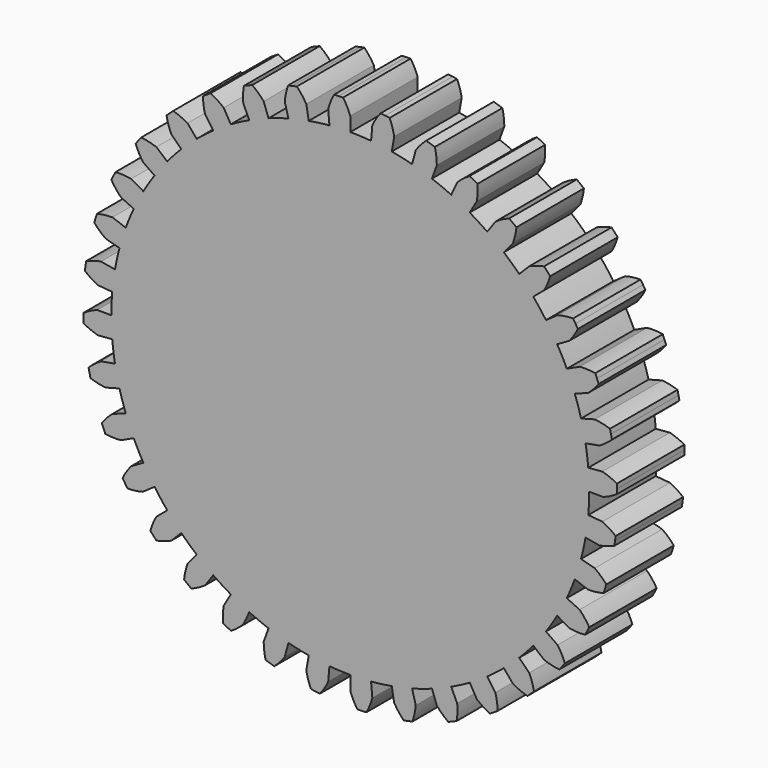
from build123d import *

# Parameters (mm, degrees)
F1_DEPTH = 6.35


with BuildPart() as f1:
    # F0 (on Front) → F1 (new body)
    with BuildSketch(Plane.XZ):
        with BuildLine():
            Line((-1.660317, 18.977509), (-1.567339, 17.914768))
            ThreePointArc((-1.567339, 17.914768), (-2.347279, 17.829351), (-3.12275, 17.709995))
            Line((-3.12275, 17.709995), (-3.307998, 18.760588))
            ThreePointArc((-3.307998, 18.760588), (-3.634061, 19.251528), (-4.018265, 19.698436))
            Line((-4.018265, 19.698436), (-4.350699, 19.624737))
            Line((-4.350699, 19.624737), (-4.683134, 19.551038))
            ThreePointArc((-4.683134, 19.551038), (-4.842469, 18.98363), (-4.930503, 18.400887))
            Line((-4.930503, 18.400887), (-4.654395, 17.370437))
            ThreePointArc((-4.654395, 17.370437), (-5.407653, 17.150883), (-6.150617, 16.89868))
            Line((-6.150617, 16.89868), (-6.515484, 17.901144))
            ThreePointArc((-6.515484, 17.901144), (-6.921844, 18.328006), (-7.377816, 18.701408))
            Line((-7.377816, 18.701408), (-7.692402, 18.571102))
            Line((-7.692402, 18.571102), (-8.006989, 18.440796))
            ThreePointArc((-8.006989, 18.440796), (-8.065374, 17.85434), (-8.050878, 17.265163))
            Line((-8.050878, 17.265163), (-7.600029, 16.298314))
            ThreePointArc((-7.600029, 16.298314), (-8.303718, 15.951293), (-8.9916, 15.573908))
            Line((-8.9916, 15.573908), (-9.525, 16.497784))
            ThreePointArc((-9.525, 16.497784), (-9.999311, 16.847596), (-10.513196, 17.136147))
            Line((-10.513196, 17.136147), (-10.800376, 16.953194))
            Line((-10.800376, 16.953194), (-11.087555, 16.77024))
            ThreePointArc((-11.087555, 16.77024), (-11.043216, 16.182555), (-10.926631, 15.604846))
            Line((-10.926631, 15.604846), (-10.31474, 14.730975))
            ThreePointArc((-10.31474, 14.730975), (-10.947479, 14.267032), (-11.559378, 13.77593))
            Line((-11.559378, 13.77593), (-12.245104, 14.593147))
            ThreePointArc((-12.245104, 14.593147), (-12.772953, 14.855281), (-13.329138, 15.050213))
            Line((-13.329138, 15.050213), (-13.580185, 14.820171))
            Line((-13.580185, 14.820171), (-13.831232, 14.590129))
            ThreePointArc((-13.831232, 14.590129), (-13.685516, 14.019071), (-13.470384, 13.470384))
            Line((-13.470384, 13.470384), (-12.716043, 12.716043))
            ThreePointArc((-12.716043, 12.716043), (-13.258606, 12.149274), (-13.77593, 11.559378))
            Line((-13.77593, 11.559378), (-14.593147, 12.245104))
            ThreePointArc((-14.593147, 12.245104), (-15.158496, 12.411596), (-15.74008, 12.506986))
            Line((-15.74008, 12.506986), (-15.947367, 12.236845))
            Line((-15.947367, 12.236845), (-16.154654, 11.966704))
            ThreePointArc((-16.154654, 11.966704), (-15.911989, 11.429625), (-15.604846, 10.926631))
            Line((-15.604846, 10.926631), (-14.730975, 10.31474))
            ThreePointArc((-14.730975, 10.31474), (-15.166877, 9.662366), (-15.573908, 8.9916))
            Line((-15.573908, 8.9916), (-16.497784, 9.525))
            ThreePointArc((-16.497784, 9.525), (-17.083455, 9.590791), (-17.672769, 9.583741))
            Line((-17.672769, 9.583741), (-17.829997, 9.281709))
            Line((-17.829997, 9.281709), (-17.987225, 8.979677))
            ThreePointArc((-17.987225, 8.979677), (-17.654984, 8.492896), (-17.265163, 8.050878))
            Line((-17.265163, 8.050878), (-16.298314, 7.600029))
            ThreePointArc((-16.298314, 7.600029), (-16.61431, 6.881873), (-16.89868, 6.150617))
            Line((-16.89868, 6.150617), (-17.901144, 6.515484))
            ThreePointArc((-17.901144, 6.515484), (-18.489343, 6.478574), (-19.068479, 6.369298))
            Line((-19.068479, 6.369298), (-19.170871, 6.044552))
            Line((-19.170871, 6.044552), (-19.273263, 5.719806))
            ThreePointArc((-19.273263, 5.719806), (-18.861541, 5.298114), (-18.400887, 4.930503))
            Line((-18.400887, 4.930503), (-17.370437, 4.654395))
            ThreePointArc((-17.370437, 4.654395), (-17.556926, 3.892277), (-17.709995, 3.12275))
            Line((-17.709995, 3.12275), (-18.760588, 3.307998))
            ThreePointArc((-18.760588, 3.307998), (-19.333441, 3.16951), (-19.884803, 2.961328))
            Line((-19.884803, 2.961328), (-19.929248, 2.623735))
            Line((-19.929248, 2.623735), (-19.973692, 2.286143))
            ThreePointArc((-19.973692, 2.286143), (-19.494999, 1.942351), (-18.977509, 1.660317))
            Line((-18.977509, 1.660317), (-17.914768, 1.567339))
            ThreePointArc((-17.914768, 1.567339), (-17.966084, 0.784416), (-17.9832, 0))
            Line((-17.9832, 0), (-19.05, 0))
            ThreePointArc((-19.05, 0), (-19.590102, -0.235859), (-20.096937, -0.536621))
            Line((-20.096937, -0.536621), (-20.082084, -0.876803))
            Line((-20.082084, -0.876803), (-20.067232, -1.216984))
            ThreePointArc((-20.067232, -1.216984), (-19.536112, -1.472428), (-18.977509, -1.660317))
            Line((-18.977509, -1.660317), (-17.914768, -1.567339))
            ThreePointArc((-17.914768, -1.567339), (-17.829351, -2.347279), (-17.709995, -3.12275))
            Line((-17.709995, -3.12275), (-18.760588, -3.307998))
            ThreePointArc((-18.760588, -3.307998), (-19.251528, -3.634061), (-19.698436, -4.018265))
            Line((-19.698436, -4.018265), (-19.624737, -4.350699))
            Line((-19.624737, -4.350699), (-19.551038, -4.683134))
            ThreePointArc((-19.551038, -4.683134), (-18.98363, -4.842469), (-18.400887, -4.930503))
            Line((-18.400887, -4.930503), (-17.370437, -4.654395))
            ThreePointArc((-17.370437, -4.654395), (-17.150883, -5.407653), (-16.89868, -6.150617))
            Line((-16.89868, -6.150617), (-17.901144, -6.515484))
            ThreePointArc((-17.901144, -6.515484), (-18.328006, -6.921844), (-18.701408, -7.377816))
            Line((-18.701408, -7.377816), (-18.571102, -7.692402))
            Line((-18.571102, -7.692402), (-18.440796, -8.006989))
            ThreePointArc((-18.440796, -8.006989), (-17.85434, -8.065374), (-17.265163, -8.050878))
            Line((-17.265163, -8.050878), (-16.298314, -7.600029))
            ThreePointArc((-16.298314, -7.600029), (-15.951293, -8.303718), (-15.573908, -8.9916))
            Line((-15.573908, -8.9916), (-16.497784, -9.525))
            ThreePointArc((-16.497784, -9.525), (-16.847596, -9.999311), (-17.136147, -10.513196))
            Line((-17.136147, -10.513196), (-16.953194, -10.800376))
            Line((-16.953194, -10.800376), (-16.77024, -11.087555))
            ThreePointArc((-16.77024, -11.087555), (-16.182555, -11.043216), (-15.604846, -10.926631))
            Line((-15.604846, -10.926631), (-14.730975, -10.31474))
            ThreePointArc((-14.730975, -10.31474), (-14.267032, -10.947479), (-13.77593, -11.559378))
            Line((-13.77593, -11.559378), (-14.593147, -12.245104))
            ThreePointArc((-14.593147, -12.245104), (-14.855281, -12.772953), (-15.050213, -13.329138))
            Line((-15.050213, -13.329138), (-14.820171, -13.580185))
            Line((-14.820171, -13.580185), (-14.590129, -13.831232))
            ThreePointArc((-14.590129, -13.831232), (-14.019071, -13.685516), (-13.470384, -13.470384))
            Line((-13.470384, -13.470384), (-12.716043, -12.716043))
            ThreePointArc((-12.716043, -12.716043), (-12.149274, -13.258606), (-11.559378, -13.77593))
            Line((-11.559378, -13.77593), (-12.245104, -14.593147))
            ThreePointArc((-12.245104, -14.593147), (-12.411596, -15.158496), (-12.506986, -15.74008))
            Line((-12.506986, -15.74008), (-12.236845, -15.947367))
            Line((-12.236845, -15.947367), (-11.966704, -16.154654))
            ThreePointArc((-11.966704, -16.154654), (-11.429625, -15.911989), (-10.926631, -15.604846))
            Line((-10.926631, -15.604846), (-10.31474, -14.730975))
            ThreePointArc((-10.31474, -14.730975), (-9.662366, -15.166877), (-8.9916, -15.573908))
            Line((-8.9916, -15.573908), (-9.525, -16.497784))
            ThreePointArc((-9.525, -16.497784), (-9.590791, -17.083455), (-9.583741, -17.672769))
            Line((-9.583741, -17.672769), (-9.281709, -17.829997))
            Line((-9.281709, -17.829997), (-8.979677, -17.987225))
            ThreePointArc((-8.979677, -17.987225), (-8.492896, -17.654984), (-8.050878, -17.265163))
            Line((-8.050878, -17.265163), (-7.600029, -16.298314))
            ThreePointArc((-7.600029, -16.298314), (-6.881873, -16.61431), (-6.150617, -16.89868))
            Line((-6.150617, -16.89868), (-6.515484, -17.901144))
            ThreePointArc((-6.515484, -17.901144), (-6.478574, -18.489343), (-6.369298, -19.068479))
            Line((-6.369298, -19.068479), (-6.044552, -19.170871))
            Line((-6.044552, -19.170871), (-5.719806, -19.273263))
            ThreePointArc((-5.719806, -19.273263), (-5.298114, -18.861541), (-4.930503, -18.400887))
            Line((-4.930503, -18.400887), (-4.654395, -17.370437))
            ThreePointArc((-4.654395, -17.370437), (-3.892277, -17.556926), (-3.12275, -17.709995))
            Line((-3.12275, -17.709995), (-3.307998, -18.760588))
            ThreePointArc((-3.307998, -18.760588), (-3.16951, -19.333441), (-2.961328, -19.884803))
            Line((-2.961328, -19.884803), (-2.623735, -19.929248))
            Line((-2.623735, -19.929248), (-2.286143, -19.973692))
            ThreePointArc((-2.286143, -19.973692), (-1.942351, -19.494999), (-1.660317, -18.977509))
            Line((-1.660317, -18.977509), (-1.567339, -17.914768))
            ThreePointArc((-1.567339, -17.914768), (-0.784416, -17.966084), (0, -17.9832))
            Line((0, -17.9832), (0, -19.05))
            ThreePointArc((0, -19.05), (0.235859, -19.590102), (0.536621, -20.096937))
            Line((0.536621, -20.096937), (0.876803, -20.082084))
            Line((0.876803, -20.082084), (1.216984, -20.067232))
            ThreePointArc((1.216984, -20.067232), (1.472428, -19.536112), (1.660317, -18.977509))
            Line((1.660317, -18.977509), (1.567339, -17.914768))
            ThreePointArc((1.567339, -17.914768), (2.347279, -17.829351), (3.12275, -17.709995))
            Line((3.12275, -17.709995), (3.307998, -18.760588))
            ThreePointArc((3.307998, -18.760588), (3.634061, -19.251528), (4.018265, -19.698436))
            Line((4.018265, -19.698436), (4.350699, -19.624737))
            Line((4.350699, -19.624737), (4.683134, -19.551038))
            ThreePointArc((4.683134, -19.551038), (4.842469, -18.98363), (4.930503, -18.400887))
            Line((4.930503, -18.400887), (4.654395, -17.370437))
            ThreePointArc((4.654395, -17.370437), (5.407653, -17.150883), (6.150617, -16.89868))
            Line((6.150617, -16.89868), (6.515484, -17.901144))
            ThreePointArc((6.515484, -17.901144), (6.921844, -18.328006), (7.377816, -18.701408))
            Line((7.377816, -18.701408), (7.692402, -18.571102))
            Line((7.692402, -18.571102), (8.006989, -18.440796))
            ThreePointArc((8.006989, -18.440796), (8.065374, -17.85434), (8.050878, -17.265163))
            Line((8.050878, -17.265163), (7.600029, -16.298314))
            ThreePointArc((7.600029, -16.298314), (8.303718, -15.951293), (8.9916, -15.573908))
            Line((8.9916, -15.573908), (9.525, -16.497784))
            ThreePointArc((9.525, -16.497784), (9.999311, -16.847596), (10.513196, -17.136147))
            Line((10.513196, -17.136147), (10.800376, -16.953194))
            Line((10.800376, -16.953194), (11.087555, -16.77024))
            ThreePointArc((11.087555, -16.77024), (11.043216, -16.182555), (10.926631, -15.604846))
            Line((10.926631, -15.604846), (10.31474, -14.730975))
            ThreePointArc((10.31474, -14.730975), (10.947479, -14.267032), (11.559378, -13.77593))
            Line((11.559378, -13.77593), (12.245104, -14.593147))
            ThreePointArc((12.245104, -14.593147), (12.772953, -14.855281), (13.329138, -15.050213))
            Line((13.329138, -15.050213), (13.580185, -14.820171))
            Line((13.580185, -14.820171), (13.831232, -14.590129))
            ThreePointArc((13.831232, -14.590129), (13.685516, -14.019071), (13.470384, -13.470384))
            Line((13.470384, -13.470384), (12.716043, -12.716043))
            ThreePointArc((12.716043, -12.716043), (13.258606, -12.149274), (13.77593, -11.559378))
            Line((13.77593, -11.559378), (14.593147, -12.245104))
            ThreePointArc((14.593147, -12.245104), (15.158496, -12.411596), (15.74008, -12.506986))
            Line((15.74008, -12.506986), (15.947367, -12.236845))
            Line((15.947367, -12.236845), (16.154654, -11.966704))
            ThreePointArc((16.154654, -11.966704), (15.911989, -11.429625), (15.604846, -10.926631))
            Line((15.604846, -10.926631), (14.730975, -10.31474))
            ThreePointArc((14.730975, -10.31474), (15.166877, -9.662366), (15.573908, -8.9916))
            Line((15.573908, -8.9916), (16.497784, -9.525))
            ThreePointArc((16.497784, -9.525), (17.083455, -9.590791), (17.672769, -9.583741))
            Line((17.672769, -9.583741), (17.829997, -9.281709))
            Line((17.829997, -9.281709), (17.987225, -8.979677))
            ThreePointArc((17.987225, -8.979677), (17.654984, -8.492896), (17.265163, -8.050878))
            Line((17.265163, -8.050878), (16.298314, -7.600029))
            ThreePointArc((16.298314, -7.600029), (16.61431, -6.881873), (16.89868, -6.150617))
            Line((16.89868, -6.150617), (17.901144, -6.515484))
            ThreePointArc((17.901144, -6.515484), (18.489343, -6.478574), (19.068479, -6.369298))
            Line((19.068479, -6.369298), (19.170871, -6.044552))
            Line((19.170871, -6.044552), (19.273263, -5.719806))
            ThreePointArc((19.273263, -5.719806), (18.861541, -5.298114), (18.400887, -4.930503))
            Line((18.400887, -4.930503), (17.370437, -4.654395))
            ThreePointArc((17.370437, -4.654395), (17.556926, -3.892277), (17.709995, -3.12275))
            Line((17.709995, -3.12275), (18.760588, -3.307998))
            ThreePointArc((18.760588, -3.307998), (19.333441, -3.16951), (19.884803, -2.961328))
            Line((19.884803, -2.961328), (19.929248, -2.623735))
            Line((19.929248, -2.623735), (19.973692, -2.286143))
            ThreePointArc((19.973692, -2.286143), (19.494999, -1.942351), (18.977509, -1.660317))
            Line((18.977509, -1.660317), (17.914768, -1.567339))
            ThreePointArc((17.914768, -1.567339), (17.966084, -0.784416), (17.9832, 0))
            Line((17.9832, 0), (19.05, 0))
            ThreePointArc((19.05, 0), (19.590102, 0.235859), (20.096937, 0.536621))
            Line((20.096937, 0.536621), (20.082084, 0.876803))
            Line((20.082084, 0.876803), (20.067232, 1.216984))
            ThreePointArc((20.067232, 1.216984), (19.536112, 1.472428), (18.977509, 1.660317))
            Line((18.977509, 1.660317), (17.914768, 1.567339))
            ThreePointArc((17.914768, 1.567339), (17.829351, 2.347279), (17.709995, 3.12275))
            Line((17.709995, 3.12275), (18.760588, 3.307998))
            ThreePointArc((18.760588, 3.307998), (19.251528, 3.634061), (19.698436, 4.018265))
            Line((19.698436, 4.018265), (19.624737, 4.350699))
            Line((19.624737, 4.350699), (19.551038, 4.683134))
            ThreePointArc((19.551038, 4.683134), (18.98363, 4.842469), (18.400887, 4.930503))
            Line((18.400887, 4.930503), (17.370437, 4.654395))
            ThreePointArc((17.370437, 4.654395), (17.150883, 5.407653), (16.89868, 6.150617))
            Line((16.89868, 6.150617), (17.901144, 6.515484))
            ThreePointArc((17.901144, 6.515484), (18.328006, 6.921844), (18.701408, 7.377816))
            Line((18.701408, 7.377816), (18.571102, 7.692402))
            Line((18.571102, 7.692402), (18.440796, 8.006989))
            ThreePointArc((18.440796, 8.006989), (17.85434, 8.065374), (17.265163, 8.050878))
            Line((17.265163, 8.050878), (16.298314, 7.600029))
            ThreePointArc((16.298314, 7.600029), (15.951293, 8.303718), (15.573908, 8.9916))
            Line((15.573908, 8.9916), (16.497784, 9.525))
            ThreePointArc((16.497784, 9.525), (16.847596, 9.999311), (17.136147, 10.513196))
            Line((17.136147, 10.513196), (16.953194, 10.800376))
            Line((16.953194, 10.800376), (16.77024, 11.087555))
            ThreePointArc((16.77024, 11.087555), (16.182555, 11.043216), (15.604846, 10.926631))
            Line((15.604846, 10.926631), (14.730975, 10.31474))
            ThreePointArc((14.730975, 10.31474), (14.267032, 10.947479), (13.77593, 11.559378))
            Line((13.77593, 11.559378), (14.593147, 12.245104))
            ThreePointArc((14.593147, 12.245104), (14.855281, 12.772953), (15.050213, 13.329138))
            Line((15.050213, 13.329138), (14.820171, 13.580185))
            Line((14.820171, 13.580185), (14.590129, 13.831232))
            ThreePointArc((14.590129, 13.831232), (14.019071, 13.685516), (13.470384, 13.470384))
            Line((13.470384, 13.470384), (12.716043, 12.716043))
            ThreePointArc((12.716043, 12.716043), (12.149274, 13.258606), (11.559378, 13.77593))
            Line((11.559378, 13.77593), (12.245104, 14.593147))
            ThreePointArc((12.245104, 14.593147), (12.411596, 15.158496), (12.506986, 15.74008))
            Line((12.506986, 15.74008), (12.236845, 15.947367))
            Line((12.236845, 15.947367), (11.966704, 16.154654))
            ThreePointArc((11.966704, 16.154654), (11.429625, 15.911989), (10.926631, 15.604846))
            Line((10.926631, 15.604846), (10.31474, 14.730975))
            ThreePointArc((10.31474, 14.730975), (9.662366, 15.166877), (8.9916, 15.573908))
            Line((8.9916, 15.573908), (9.525, 16.497784))
            ThreePointArc((9.525, 16.497784), (9.590791, 17.083455), (9.583741, 17.672769))
            Line((9.583741, 17.672769), (9.281709, 17.829997))
            Line((9.281709, 17.829997), (8.979677, 17.987225))
            ThreePointArc((8.979677, 17.987225), (8.492896, 17.654984), (8.050878, 17.265163))
            Line((8.050878, 17.265163), (7.600029, 16.298314))
            ThreePointArc((7.600029, 16.298314), (6.881873, 16.61431), (6.150617, 16.89868))
            Line((6.150617, 16.89868), (6.515484, 17.901144))
            ThreePointArc((6.515484, 17.901144), (6.478574, 18.489343), (6.369298, 19.068479))
            Line((6.369298, 19.068479), (6.044552, 19.170871))
            Line((6.044552, 19.170871), (5.719806, 19.273263))
            ThreePointArc((5.719806, 19.273263), (5.298114, 18.861541), (4.930503, 18.400887))
            Line((4.930503, 18.400887), (4.654395, 17.370437))
            ThreePointArc((4.654395, 17.370437), (3.892277, 17.556926), (3.12275, 17.709995))
            Line((3.12275, 17.709995), (3.307998, 18.760588))
            ThreePointArc((3.307998, 18.760588), (3.16951, 19.333441), (2.961328, 19.884803))
            Line((2.961328, 19.884803), (2.623735, 19.929248))
            Line((2.623735, 19.929248), (2.286143, 19.973692))
            ThreePointArc((2.286143, 19.973692), (1.942351, 19.494999), (1.660317, 18.977509))
            Line((1.660317, 18.977509), (1.567339, 17.914768))
            ThreePointArc((1.567339, 17.914768), (0.784416, 17.966084), (0, 17.9832))
            Line((0, 17.9832), (0, 19.05))
            ThreePointArc((0, 19.05), (-0.235859, 19.590102), (-0.536621, 20.096937))
            Line((-0.536621, 20.096937), (-0.876803, 20.082084))
            Line((-0.876803, 20.082084), (-1.216984, 20.067232))
            ThreePointArc((-1.216984, 20.067232), (-1.472428, 19.536112), (-1.660317, 18.977509))
        make_face()
    extrude(amount=F1_DEPTH)


solid = f1.part
